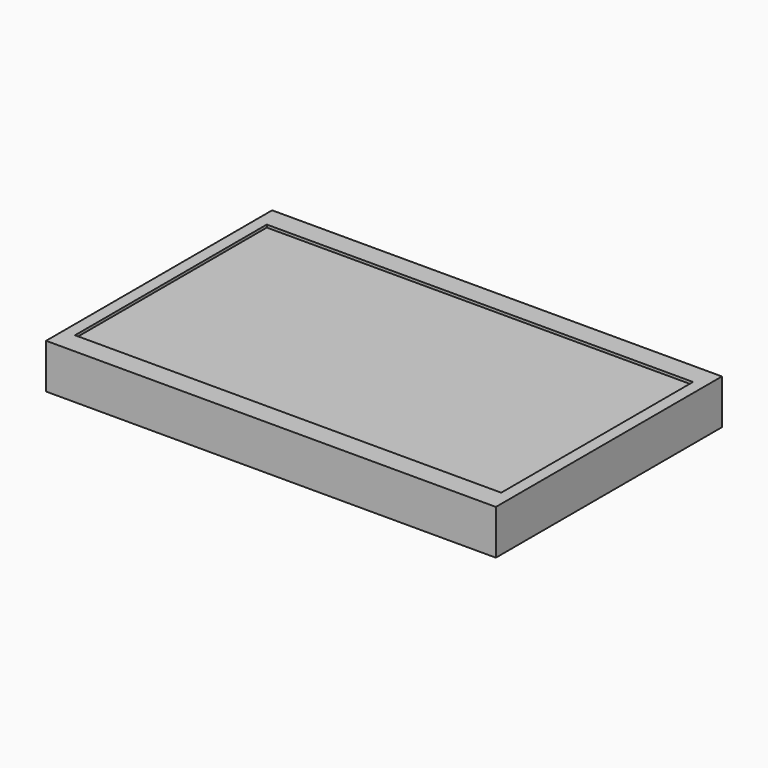
from build123d import *

# Parameters (mm, degrees)
F0_W     = 503
F0_H     = 316
F1_DEPTH = 50
F2_R     = 2
F3_DEPTH = 10
F4_W     = 476.64
F4_H     = 268.11
F5_DEPTH = 3


with BuildPart() as f1:
    # F0 (on Top) → F1 (new body)
    with BuildSketch(Plane.XY):
        with Locations((251.5, 158)):
            Rectangle(F0_W, F0_H)
    extrude(amount=F1_DEPTH)

    # F2 (on face) → F3 (cut)
    with BuildSketch(Plane(origin=(0, 0, 0), x_dir=(1, 0, 0), z_dir=(0, 0, -1))):
        with Locations((301.5, -208)):
            Circle(F2_R)
        with Locations((201.5, -208)):
            Circle(F2_R)
        with Locations((201.5, -108)):
            Circle(F2_R)
        with Locations((301.5, -108)):
            Circle(F2_R)
    extrude(amount=-F3_DEPTH, mode=Mode.SUBTRACT)

    # F4 (on face) → F5 (cut)
    with BuildSketch(Plane.XY.offset(50)):
        with Locations((251.5, 158)):
            Rectangle(F4_W, F4_H)
    extrude(amount=-F5_DEPTH, mode=Mode.SUBTRACT)


solid = f1.part
